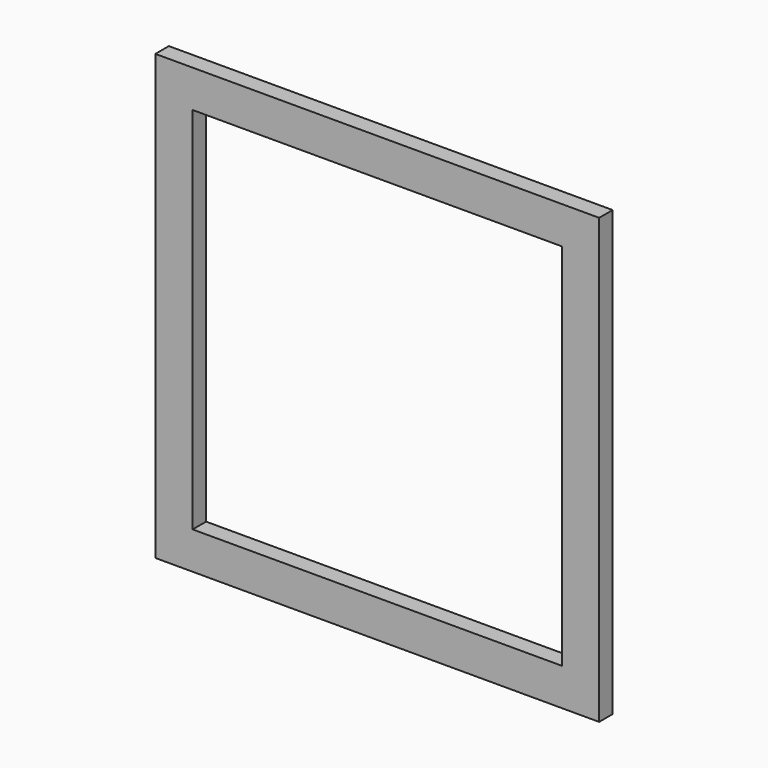
from build123d import *

# Parameters (mm, degrees)
F0_W     = 416
F0_H     = 42
F1_DEPTH = 19


with BuildPart() as f1:
    # F0 (on Front) → F1 (new body)
    with BuildSketch(Plane.XZ):
        Rectangle(F0_W, F0_H)
        Polygon((208, 21), (208, -21), (208, -437), (208, -479), (250, -479), (250, 21), align=None)
        Polygon((-208, -437), (-208, -21), (-208, 21), (-250, 21), (-250, -479), (-208, -479), align=None)
        with Locations((0, -458)):
            Rectangle(F0_W, F0_H)
    extrude(amount=F1_DEPTH)


solid = f1.part
